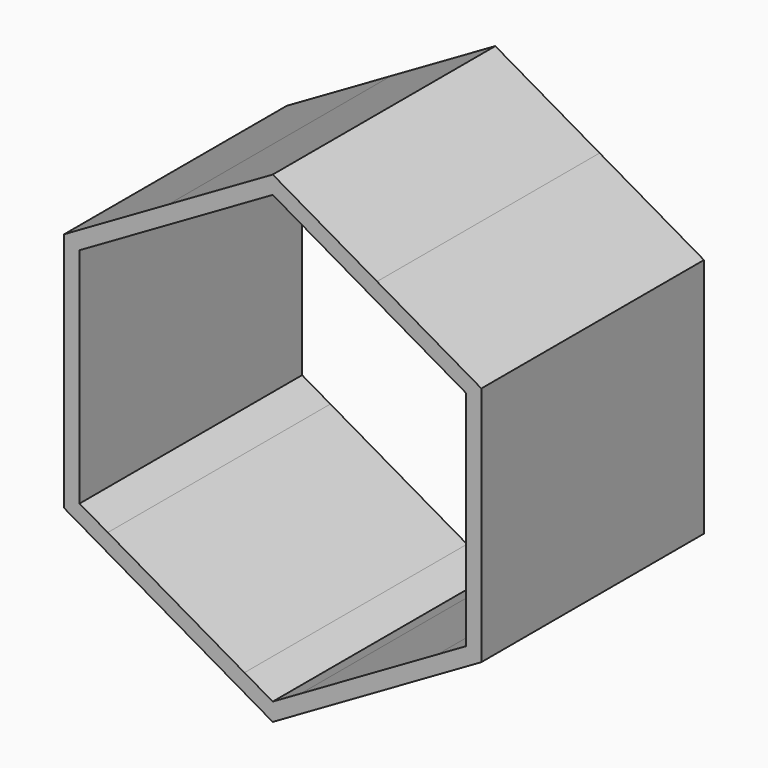
from build123d import *

# Parameters (mm, degrees)
F1_DEPTH = 25.4


with BuildPart() as f1:
    # F0 (on Front) → F1 (new body)
    with BuildSketch(Plane.XZ):
        with BuildLine():
            Line((-15.0568864458, 11.6701615481), (-2.5782131441, 18.874726938))
            ThreePointArc((-2.5782131441, 18.874726938), (-6.1672042493, 18.0240975294), (-9.5250002446, 16.4977838009))
            ThreePointArc((-9.5250002446, 16.4977838009), (-12.5257244289, 14.3530041292), (-15.0568864458, 11.6701615481))
        make_face()
        with BuildLine():
            ThreePointArc((-9.5250002446, 16.4977838009), (-6.1672042493, 18.0240975294), (-2.5782131441, 18.874726938))
            Line((-2.5782131441, 18.874726938), (0, 20.3632589907))
            Line((0, 20.3632589907), (2.5782131441, 18.874726938))
            ThreePointArc((2.5782131441, 18.874726938), (6.1672039301, 18.0240976386), (9.5249996603, 16.4977841382))
            Line((9.5249996603, 16.4977841382), (0, 21.9970452561))
            Line((0, 21.9970452561), (-9.5250002446, 16.4977838009))
        make_face()
        with BuildLine():
            ThreePointArc((-15.0568864458, 11.6701615481), (-12.5257244289, 14.3530041292), (-9.5250002446, 16.4977838009))
            Line((-9.5250002446, 16.4977838009), (-19.05, 10.9985226281))
            Line((-19.05, 10.9985226281), (-19.05, 0))
            ThreePointArc((-19.05, 0), (-18.6929284381, 3.6710933531), (-17.6350995898, 7.2045653899))
            Line((-17.6350995898, 7.2045653899), (-17.6350995898, 10.1816294954))
            Line((-17.6350995898, 10.1816294954), (-15.0568864458, 11.6701615481))
        make_face()
        with BuildLine():
            ThreePointArc((9.5249996603, 16.4977841382), (6.1672039301, 18.0240976386), (2.5782131441, 18.874726938))
            Line((2.5782131441, 18.874726938), (15.0568864458, 11.6701615481))
            ThreePointArc((15.0568864458, 11.6701615481), (12.5257241747, 14.353004351), (9.5249996603, 16.4977841382))
        make_face()
        with BuildLine():
            ThreePointArc((-17.6350995898, -7.2045653899), (-18.6929284381, -3.6710933531), (-19.05, 0))
            Line((-19.05, 0), (-19.05, -10.9985226281))
            Line((-19.05, -10.9985226281), (-9.5250001009, -16.4977838839))
            ThreePointArc((-9.5250001009, -16.4977838839), (-12.5257243664, -14.3530041837), (-15.0568864458, -11.6701615481))
            Line((-15.0568864458, -11.6701615481), (-17.6350995898, -10.1816294954))
            Line((-17.6350995898, -10.1816294954), (-17.6350995898, -7.2045653899))
        make_face()
        with BuildLine():
            ThreePointArc((-17.6350995898, 7.2045653899), (-18.6929284381, 3.6710933531), (-19.05, 0))
            ThreePointArc((-19.05, 0), (-18.6929284381, -3.6710933531), (-17.6350995898, -7.2045653899))
            Line((-17.6350995898, -7.2045653899), (-17.6350995898, 7.2045653899))
        make_face()
        with BuildLine():
            Line((19.05, 10.9985226281), (9.5249996603, 16.4977841382))
            ThreePointArc((9.5249996603, 16.4977841382), (12.5257241747, 14.353004351), (15.0568864458, 11.6701615481))
            Line((15.0568864458, 11.6701615481), (17.6350995898, 10.1816294954))
            Line((17.6350995898, 10.1816294954), (17.6350995898, 7.2045653899))
            ThreePointArc((17.6350995898, 7.2045653899), (18.6929284476, 3.671093305), (19.05, -9.8e-08))
            Line((19.05, -9.8e-08), (19.05, 10.9985226281))
        make_face()
        with BuildLine():
            ThreePointArc((-2.5782131441, -18.874726938), (-6.1672041707, -18.0240975562), (-9.5250001009, -16.4977838839))
            Line((-9.5250001009, -16.4977838839), (0, -21.9970452561))
            Line((0, -21.9970452561), (9.5250001008, -16.4977838839))
            ThreePointArc((9.5250001008, -16.4977838839), (6.1672041707, -18.0240975562), (2.5782131441, -18.874726938))
            Line((2.5782131441, -18.874726938), (0, -20.3632589907))
            Line((0, -20.3632589907), (-2.5782131441, -18.874726938))
        make_face()
        with BuildLine():
            ThreePointArc((-15.0568864458, -11.6701615481), (-12.5257243664, -14.3530041837), (-9.5250001009, -16.4977838839))
            ThreePointArc((-9.5250001009, -16.4977838839), (-6.1672041707, -18.0240975562), (-2.5782131441, -18.874726938))
            Line((-2.5782131441, -18.874726938), (-15.0568864458, -11.6701615481))
        make_face()
        with BuildLine():
            Line((19.05, -10.9985226281), (19.05, -9.8e-08))
            ThreePointArc((19.05, -9.8e-08), (18.6929284287, -3.6710934011), (17.6350995898, -7.2045653899))
            Line((17.6350995898, -7.2045653899), (17.6350995898, -10.1816294954))
            Line((17.6350995898, -10.1816294954), (15.0568864458, -11.6701615481))
            ThreePointArc((15.0568864458, -11.6701615481), (12.5257243663, -14.3530041837), (9.5250001008, -16.4977838839))
            Line((9.5250001008, -16.4977838839), (19.05, -10.9985226281))
        make_face()
        with BuildLine():
            ThreePointArc((17.6350995898, -7.2045653899), (18.6929284287, -3.6710934011), (19.05, -9.8e-08))
            ThreePointArc((19.05, -9.8e-08), (18.6929284476, 3.671093305), (17.6350995898, 7.2045653899))
            Line((17.6350995898, 7.2045653899), (17.6350995898, -7.2045653899))
        make_face()
        with BuildLine():
            ThreePointArc((2.5782131441, -18.874726938), (6.1672041707, -18.0240975562), (9.5250001008, -16.4977838839))
            ThreePointArc((9.5250001008, -16.4977838839), (12.5257243663, -14.3530041837), (15.0568864458, -11.6701615481))
            Line((15.0568864458, -11.6701615481), (2.5782131441, -18.874726938))
        make_face()
    extrude(amount=F1_DEPTH)


solid = f1.part
